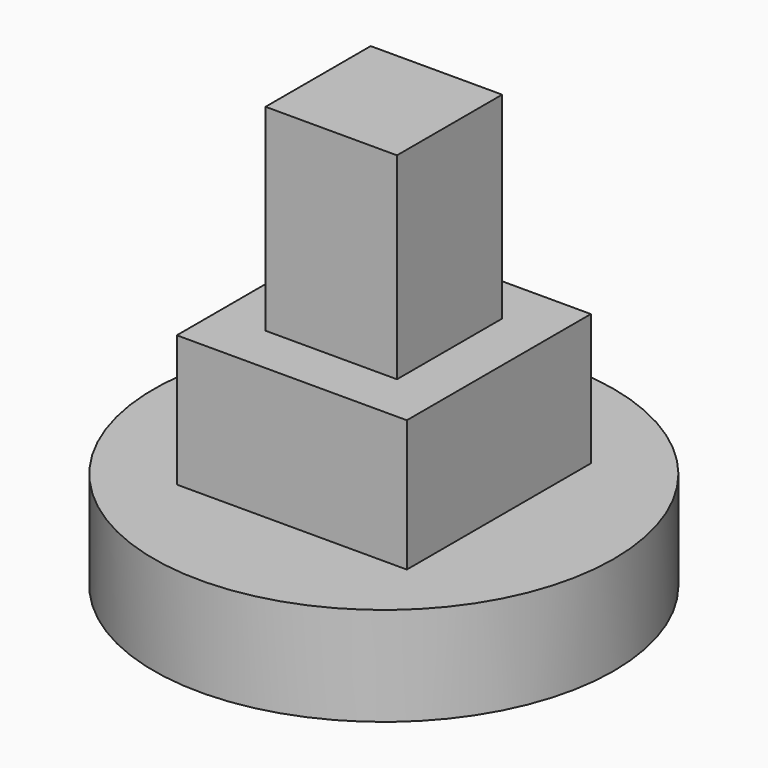
from build123d import *

# Parameters (mm, degrees)
F0_R     = 35
F1_DEPTH = 15
F2_W     = 35
F2_H     = 35
F3_DEPTH = 20
F4_W     = 20
F4_H     = 20
F5_DEPTH = 30


with BuildPart() as f1:
    # F0 (on Top) → F1 (new body)
    with BuildSketch(Plane.XY):
        Circle(F0_R)
    extrude(amount=F1_DEPTH)

    # F2 (on face) → F3 (join)
    with BuildSketch(Plane.XY.offset(15)):
        Rectangle(F2_W, F2_H)
    extrude(amount=F3_DEPTH)

    # F4 (on face) → F5 (join)
    with BuildSketch(Plane.XY.offset(35)):
        Rectangle(F4_W, F4_H)
    extrude(amount=F5_DEPTH)


solid = f1.part
